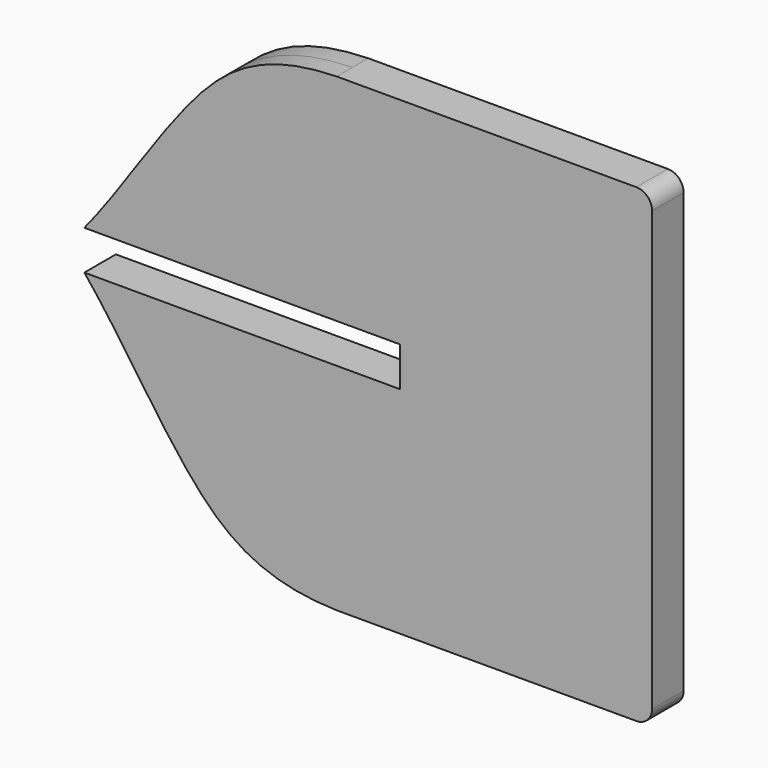
from build123d import *

# Parameters (mm, degrees)
F1_DEPTH = 0.79375
F2_R     = 0.635


with BuildPart() as f1:
    # F0 (on Front) → F1 (new body, symmetric)
    with BuildSketch(Plane.XZ):
        with BuildLine():
            Line((-6.35, -9.4615), (6.35, -9.4615))
            Line((6.35, -9.4615), (6.35, 9.4615))
            Line((6.35, 9.4615), (-6.35, 9.4615))
            add(Edge.make_bspline(
                [(-6.35, 9.4615), (-9.4238393137, 9.3856386824), (-12.3985658508, 7.064816161), (-15.0919286534, 2.519920934), (-16.51, 0.79375)],
                knots=[0, 0, 0, 0, 0.4891154758, 1, 1, 1, 1], degree=3))
            Line((-16.51, 0.79375), (-3.81, 0.79375))
            Line((-3.81, 0.79375), (-3.81, -0.79375))
            Line((-3.81, -0.79375), (-16.51, -0.79375))
            add(Edge.make_bspline(
                [(-6.35, -9.4615), (-9.4238393137, -9.3856386824), (-12.3985658508, -7.064816161), (-15.0919286534, -2.519920934), (-16.51, -0.79375)],
                knots=[0, 0, 0, 0, 0.4891154758, 1, 1, 1, 1], degree=3))
        make_face()
    extrude(amount=F1_DEPTH, both=True)

    # F2
    f2_edges = [f1.edges().sort_by_distance(p)[0] for p in [
        (6.35, 0, 9.4615),
        (6.35, 0, -9.4615),
    ]]
    fillet(f2_edges, radius=F2_R)


solid = f1.part
